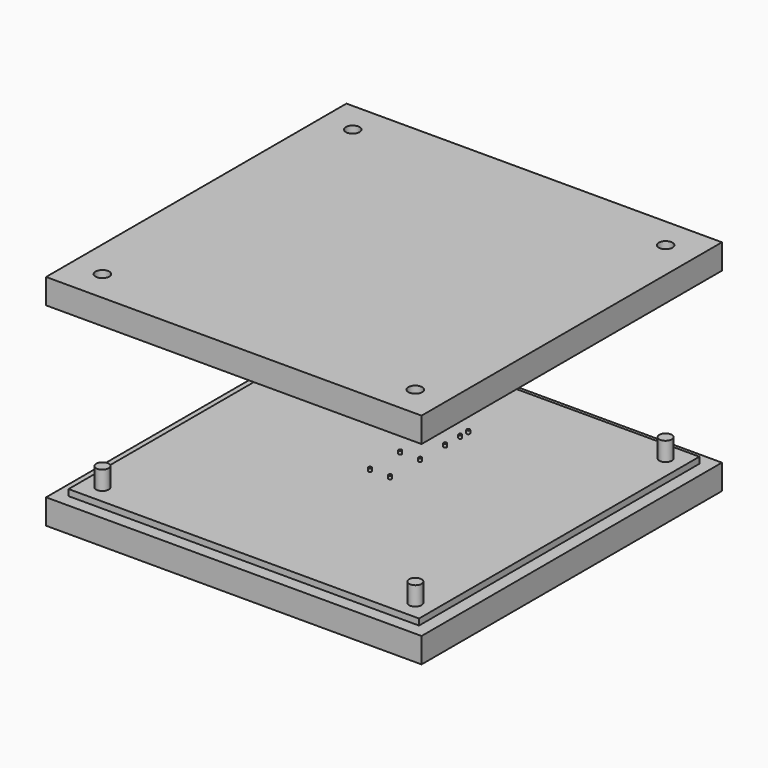
from build123d import *

# Parameters (mm, degrees)
F2_W      = 60
F2_H      = 60
F3_DEPTH  = 5
F4_W      = 60
F4_H      = 60
F4_W_2    = 56
F4_H_2    = 56
F5_DEPTH  = 1
F1_R      = 0.25
F6_DEPTH  = 0.5
F7_R      = 1
F8_DEPTH  = 3
F10_W     = 60
F10_H     = 60
F10_W_2   = 56
F10_H_2   = 56
F10_R     = 1.1
F11_DEPTH = 5
F12_R     = 0.35
F12_R_2   = 0.25
F13_DEPTH = 0.7
F14_DEPTH = 1


with BuildPart() as f3:
    # F2 (on Top) → F3 (new body)
    with BuildSketch(Plane.XY):
        Rectangle(F2_W, F2_H)
    extrude(amount=-F3_DEPTH)

    # F4 (on face) → F5 (cut)
    with BuildSketch(Plane.XY):
        Rectangle(F4_W, F4_H)
        Rectangle(F4_W_2, F4_H_2, mode=Mode.SUBTRACT)
    extrude(amount=-F5_DEPTH, mode=Mode.SUBTRACT)

    # F1 (on Top) → F6 (join)
    with BuildSketch(Plane.XY):
        with Locations((-1.65, 14.891817)):
            Circle(F1_R)
        with Locations((1.55, 14.891817)):
            Circle(F1_R)
        with Locations((1.55, 13.291817)):
            Circle(F1_R)
        with Locations((-1.65, 13.291817)):
            Circle(F1_R)
        with Locations((1.55, 10.291817)):
            Circle(F1_R)
        with Locations((-1.65, 10.291817)):
            Circle(F1_R)
        with Locations((1.55, 5.291817)):
            Circle(F1_R)
        with Locations((-1.65, 5.291817)):
            Circle(F1_R)
        with Locations((-1.65, -0.708183)):
            Circle(F1_R)
        with Locations((1.55, -0.708183)):
            Circle(F1_R)
    extrude(amount=F6_DEPTH)

    # F7 (on face) → F8 (join)
    with BuildSketch(Plane.XY):
        with Locations((25, -25)):
            Circle(F7_R)
        with Locations((-25, -25)):
            Circle(F7_R)
        with Locations((-25, 25)):
            Circle(F7_R)
        with Locations((25, 25)):
            Circle(F7_R)
    extrude(amount=F8_DEPTH)


with BuildPart() as f11:
    # F10 (on offset) → F11 (new body)
    with BuildSketch(Plane.XY.offset(25)):
        Rectangle(F10_W, F10_H)
        Rectangle(F10_W_2, F10_H_2, mode=Mode.SUBTRACT)
        Rectangle(F10_W_2, F10_H_2)
        with Locations((-25, -25)):
            Circle(F10_R, mode=Mode.SUBTRACT)
        with Locations((25, -25)):
            Circle(F10_R, mode=Mode.SUBTRACT)
        with Locations((-25, 25)):
            Circle(F10_R, mode=Mode.SUBTRACT)
        with Locations((25, 25)):
            Circle(F10_R, mode=Mode.SUBTRACT)
    extrude(amount=F11_DEPTH)

    # F12 (on offset) → F13 (cut)
    with BuildSketch(Plane.XY.offset(25)):
        with Locations((-1.65, -0.708183)):
            Circle(F12_R)
        with Locations((-1.65, -0.708183)):
            Circle(F12_R_2, mode=Mode.SUBTRACT)
        with Locations((1.55, -0.708183)):
            Circle(F12_R)
        with Locations((1.55, -0.708183)):
            Circle(F12_R_2, mode=Mode.SUBTRACT)
        with Locations((1.55, 5.291817)):
            Circle(F12_R)
        with Locations((1.55, 5.291817)):
            Circle(F12_R_2, mode=Mode.SUBTRACT)
        with Locations((-1.65, 5.291817)):
            Circle(F12_R)
        with Locations((-1.65, 5.291817)):
            Circle(F12_R_2, mode=Mode.SUBTRACT)
        with Locations((-1.65, 10.291817)):
            Circle(F12_R)
        with Locations((-1.65, 10.291817)):
            Circle(F12_R_2, mode=Mode.SUBTRACT)
        with Locations((1.55, 10.291817)):
            Circle(F12_R)
        with Locations((1.55, 10.291817)):
            Circle(F12_R_2, mode=Mode.SUBTRACT)
        with Locations((-1.65, 14.891817)):
            Circle(F12_R)
        with Locations((-1.65, 14.891817)):
            Circle(F12_R_2, mode=Mode.SUBTRACT)
        with Locations((-1.65, 13.291817)):
            Circle(F12_R)
        with Locations((-1.65, 13.291817)):
            Circle(F12_R_2, mode=Mode.SUBTRACT)
        with Locations((1.55, 13.291817)):
            Circle(F12_R)
        with Locations((1.55, 13.291817)):
            Circle(F12_R_2, mode=Mode.SUBTRACT)
        with Locations((1.55, 14.891817)):
            Circle(F12_R)
        with Locations((1.55, 14.891817)):
            Circle(F12_R_2, mode=Mode.SUBTRACT)
        with Locations((-1.65, -0.708183)):
            Circle(F12_R_2)
        with Locations((1.55, -0.708183)):
            Circle(F12_R_2)
        with Locations((1.55, 5.291817)):
            Circle(F12_R_2)
        with Locations((-1.65, 5.291817)):
            Circle(F12_R_2)
        with Locations((-1.65, 10.291817)):
            Circle(F12_R_2)
        with Locations((1.55, 10.291817)):
            Circle(F12_R_2)
        with Locations((-1.65, 14.891817)):
            Circle(F12_R_2)
        with Locations((-1.65, 13.291817)):
            Circle(F12_R_2)
        with Locations((1.55, 13.291817)):
            Circle(F12_R_2)
        with Locations((1.55, 14.891817)):
            Circle(F12_R_2)
    extrude(amount=F13_DEPTH, mode=Mode.SUBTRACT)

    # F10 (on offset) → F14 (cut)
    with BuildSketch(Plane.XY.offset(25)):
        Rectangle(F10_W, F10_H)
        Rectangle(F10_W_2, F10_H_2, mode=Mode.SUBTRACT)
    extrude(amount=F14_DEPTH, mode=Mode.SUBTRACT)


solid = Compound([f3.part, f11.part])
